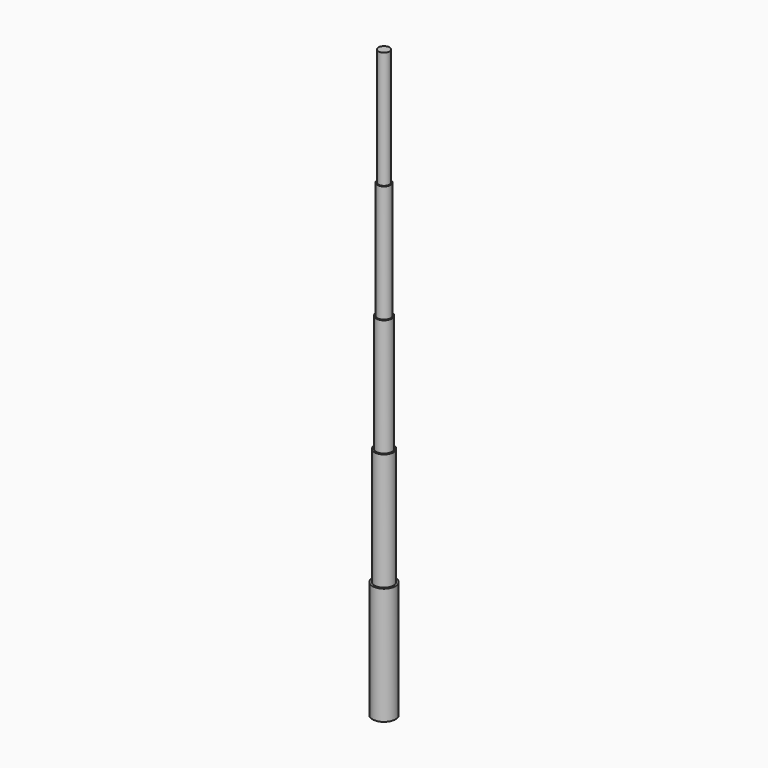
from build123d import *

# Parameters (mm, degrees)
F0_R      = 5.2451
F1_DEPTH  = 53.5432
F2_R      = 4.191
F3_DEPTH  = 6.35
F4_R      = 4.370917
F5_DEPTH  = 53.5432
F6_R      = 3.65125
F7_DEPTH  = 53.5432
F8_R      = 3.048
F9_DEPTH  = 53.5432
F10_R     = 2.54
F11_DEPTH = 53.5432


with BuildPart() as f1:
    # F0 (on Top) → F1 (new body)
    with BuildSketch(Plane.XY):
        Circle(F0_R)
    extrude(amount=F1_DEPTH)

    # F2 (on face) → F3 (cut)
    with BuildSketch(Plane(origin=(0, 0, 0), x_dir=(1, 0, 0), z_dir=(0, 0, -1))):
        Circle(F2_R)
    extrude(amount=-F3_DEPTH, mode=Mode.SUBTRACT)

    # F4 (on face) → F5 (join)
    with BuildSketch(Plane.XY.offset(53.5432)):
        Circle(F4_R)
    extrude(amount=F5_DEPTH)

    # F6 (on face) → F7 (join)
    with BuildSketch(Plane.XY.offset(107.0864)):
        Circle(F6_R)
    extrude(amount=F7_DEPTH)

    # F8 (on face) → F9 (join)
    with BuildSketch(Plane.XY.offset(160.6296)):
        Circle(F8_R)
    extrude(amount=F9_DEPTH)

    # F10 (on face) → F11 (join)
    with BuildSketch(Plane.XY.offset(214.1728)):
        Circle(F10_R)
    extrude(amount=F11_DEPTH)


solid = f1.part
